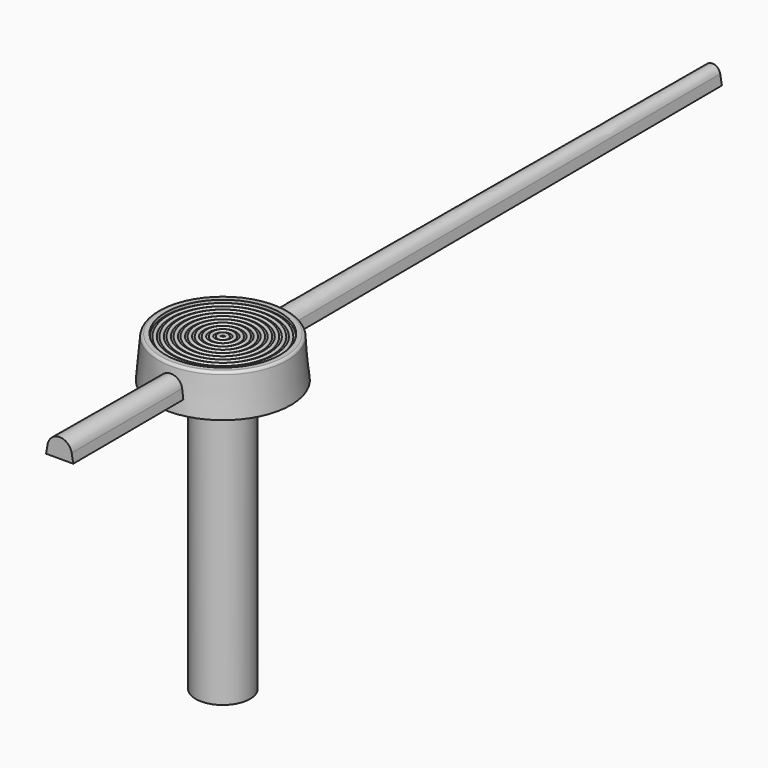
from build123d import *


with BuildPart() as hand:
    # Sketch → AdditiveLoft section 0
    with BuildSketch(Plane.XZ):
        with BuildLine():
            Line((-0.5, 0), (0.5, 0))
            Line((0.5, 0), (0.441963, 0.329146))
            ThreePointArc((0.441963, 0.329146), (0, 0.7), (-0.441963, 0.329146))
            Line((-0.5, 0), (-0.441963, 0.329146))
        make_face()
    # Sketch001 → AdditiveLoft section 1
    with BuildSketch(Plane.XZ.offset(-30)):
        with BuildLine():
            Line((-0.35, 0), (0.35, 0))
            Line((0.35, 0), (0.286609, 0.359509))
            ThreePointArc((0.286609, 0.359509), (0, 0.6), (-0.286609, 0.359509))
            Line((-0.35, 0), (-0.286609, 0.359509))
        make_face()
    loft()


with BuildPart() as hand_1:
    # Body001 placement: moved
    add(hand.part.moved(Location((0, -7.5, 0.5))))


with BuildPart() as fusion:
    # Sketch002 → Revolution (revolve)
    with BuildSketch(Plane.YZ):
        with BuildLine():
            Line((-2.5, 0), (-2.376753, 1.408716))
            ThreePointArc((-2.277134, 1.5), (-2.344693, 1.473728), (-2.376753, 1.408716))
            Line((-2.277134, 1.5), (-2.108749, 1.5))
            Line((-2.108749, 1.5), (-2.1, 1.4))
            Line((-2.1, 1.4), (-2.025, 1.4))
            ThreePointArc((-1.8975, 1.4), (-1.96125, 1.46375), (-2.025, 1.4))
            Line((-1.8975, 1.4), (-1.8225, 1.4))
            ThreePointArc((-1.695, 1.4), (-1.75875, 1.46375), (-1.8225, 1.4))
            Line((-1.695, 1.4), (-1.62, 1.4))
            ThreePointArc((-1.4925, 1.4), (-1.55625, 1.46375), (-1.62, 1.4))
            Line((-1.4925, 1.4), (-1.4175, 1.4))
            ThreePointArc((-1.29, 1.4), (-1.35375, 1.46375), (-1.4175, 1.4))
            Line((-1.29, 1.4), (-1.215, 1.4))
            ThreePointArc((-1.0875, 1.4), (-1.15125, 1.46375), (-1.215, 1.4))
            Line((-1.0875, 1.4), (-1.0125, 1.4))
            ThreePointArc((-0.885, 1.4), (-0.94875, 1.46375), (-1.0125, 1.4))
            Line((-0.885, 1.4), (-0.81, 1.4))
            ThreePointArc((-0.6825, 1.4), (-0.74625, 1.46375), (-0.81, 1.4))
            Line((-0.6825, 1.4), (-0.6075, 1.4))
            ThreePointArc((-0.48, 1.4), (-0.54375, 1.46375), (-0.6075, 1.4))
            Line((-0.48, 1.4), (-0.405, 1.4))
            ThreePointArc((-0.2775, 1.4), (-0.34125, 1.46375), (-0.405, 1.4))
            Line((-0.2775, 1.4), (-0.2025, 1.4))
            ThreePointArc((-0.075, 1.4), (-0.13875, 1.46375), (-0.2025, 1.4))
            Line((-0.075, 1.4), (0, 1.4))
            Line((0, -10), (0, 1.4))
            Line((-1, -10), (0, -10))
            Line((-1, 0), (-1, -10))
            Line((-2.5, 0), (-1, 0))
        make_face()
    revolve(axis=Axis((0, 0, 0), (0, 0, 1)))

    # Fusion: union hand
    add(hand_1.part)


solid = fusion.part
